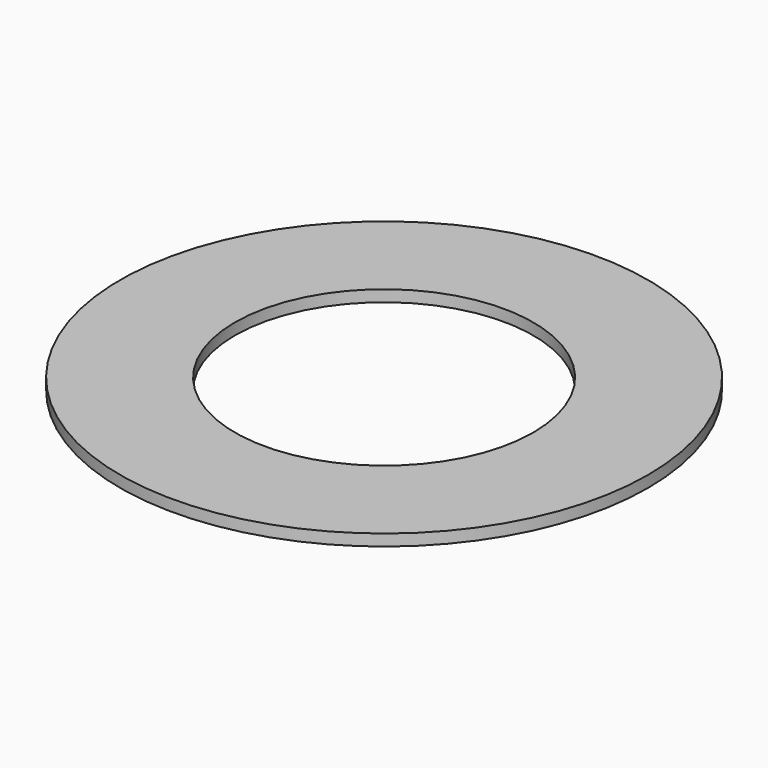
from build123d import *

# Parameters (mm, degrees)
SKETCH_R   = 11.5
SKETCH_R_2 = 6.5
PAD_DEPTH  = 0.5


with BuildPart() as part:
    # Sketch → Pad (new body)
    with BuildSketch(Plane.XY):
        Circle(SKETCH_R)
        Circle(SKETCH_R_2, mode=Mode.SUBTRACT)
    extrude(amount=PAD_DEPTH)


solid = part.part
